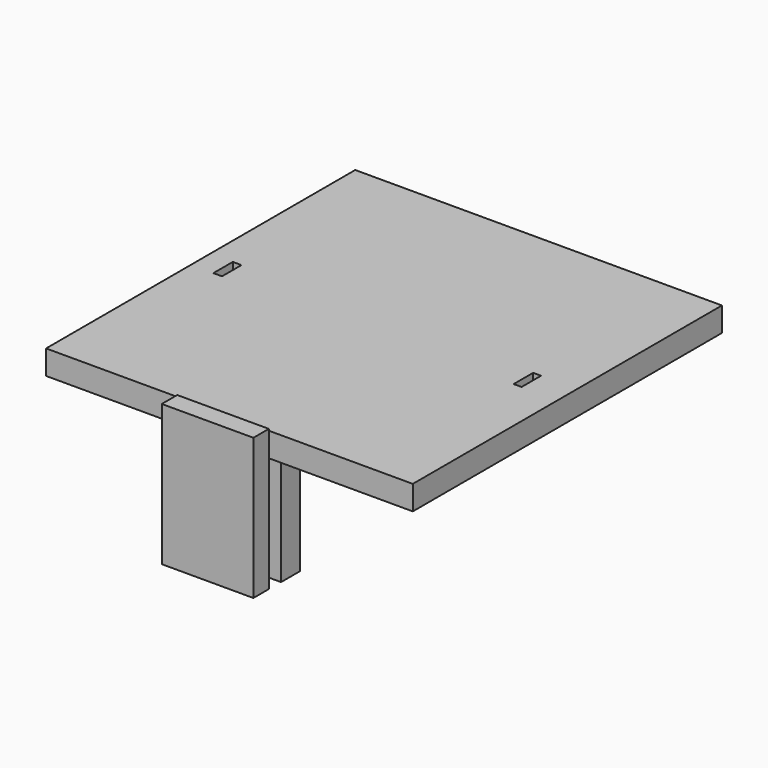
from build123d import *

# Parameters (mm, degrees)
F0_W     = 47.2308259338
F0_H     = 127.08
F0_W_2   = 2.84589082
F0_H_2   = 8
F0_W_3   = 73.3691740662
F0_W_4   = 2.6096887887
F1_DEPTH = 7.9756
F3_W     = 30.1258238032
F3_H     = 46.3937623426
F4_DEPTH = 6.35
F6_W     = 9.6924505796
F6_H     = 2.8718380383
F7_DEPTH = 25.4
F8_DEPTH = 12.7


with BuildPart() as f1:
    # F0 (on Top) → F1 (new body)
    with BuildSketch(Plane.XY):
        with Locations((-23.6154129669, -4.7186717279)):
            Rectangle(F0_W, F0_H)
        with Locations((-38.4195260704, -4.7210717279)):
            Rectangle(F0_W_2, F0_H_2, mode=Mode.SUBTRACT)
        with Locations((36.6845870331, -4.7186717279)):
            Rectangle(F0_W_3, F0_H)
        with Locations((60.218263734, -4.7210717279)):
            Rectangle(F0_W_4, F0_H_2, mode=Mode.SUBTRACT)
    extrude(amount=F1_DEPTH)

    # F3 (on offset) → F4 (join)
    with BuildSketch(Plane.XZ.offset(68.2586717279)):
        with Locations((10.9603698365, -14.6902077831)):
            Rectangle(F3_W, F3_H)
    extrude(amount=F4_DEPTH)

    # F6 (on offset) → F7 (join)
    with BuildSketch(Plane(origin=(0, 0, 0), x_dir=(1, 0, 0), z_dir=(0, 0, -1))):
        with Locations((11.2944499124, 61.5227527088)):
            Rectangle(F6_W, F6_H)
        Polygon((6.4482246226, 60.0868336896), (6.4482246226, 62.9586717279), (-3.9315340109, 62.9586717279), (-3.9315340109, 55.2566833794), (25.8039161563, 55.2566833794), (25.8039161563, 62.9586717279), (16.1406752022, 62.9586717279), (16.1406752022, 60.0868336896), align=None)
    extrude(amount=F7_DEPTH)

    # F8 (add): a face of the model
    f8_faces = [f1.faces().sort_by_distance(p)[0] for p in [
        (10.9361910727, -59.1076775537, -25.4),
    ]]
    extrude(f8_faces, amount=F8_DEPTH)


solid = f1.part
